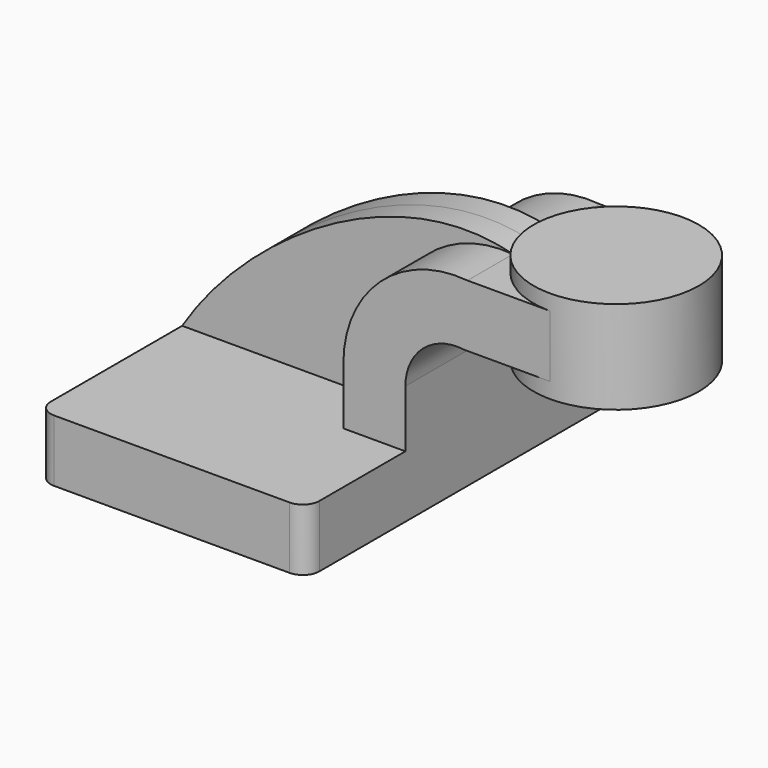
from build123d import *

# Parameters (mm, degrees)
F1_DEPTH = 63.5
F2_DEPTH = 25.4
F3_DEPTH = 7.9375
F5_R     = 5.08


with BuildPart() as f1:
    # F0 (on Front) → F1 (new body, symmetric)
    with BuildSketch(Plane.XZ):
        Polygon((41.275, -9.525), (41.275, 9.525), (22.225, 9.525), (-41.275, 9.525), (-41.275, -9.525), align=None)
    extrude(amount=F1_DEPTH, both=True)

    # F0 (on Front) → F2 (join, symmetric)
    with BuildSketch(Plane.XZ):
        with BuildLine():
            Line((22.225, 9.525), (41.275, 9.525))
            Line((41.275, 9.525), (41.275, 27.147279))
            ThreePointArc((41.275, 27.147279), (46.714726, 39.110585), (59.305952, 42.8752))
            Line((59.305952, 42.8752), (60.325, 42.8752))
            Line((60.325, 42.8752), (60.325, 61.927662))
            ThreePointArc((60.325, 61.927662), (33.60357, 52.941101), (22.225, 27.147279))
            Line((22.225, 27.147279), (22.225, 9.525))
        make_face()
        with BuildLine():
            ThreePointArc((60.35185, 61.9252), (60.338425, 61.926433), (60.325, 61.927662))
            Line((60.325, 61.927662), (60.325, 42.8752))
            Line((60.325, 42.8752), (85.725, 42.8752))
            Line((85.725, 42.8752), (85.725, 61.9252))
            Line((85.725, 61.9252), (60.35185, 61.9252))
        make_face()
    extrude(amount=F2_DEPTH, both=True)

    # F5
    f5_edges = [f1.edges().sort_by_distance(p)[0] for p in [
        (41.275, 63.5, 0),
        (-41.275, 63.5, 0),
        (-41.275, -63.5, 0),
        (41.275, -63.5, 0),
    ]]
    fillet(f5_edges, radius=F5_R)


with BuildPart() as f3:
    # F0 (on Front) → F3 (new body, symmetric)
    with BuildSketch(Plane.XZ):
        with BuildLine():
            Line((-41.275, 9.525), (22.225, 9.525))
            Line((22.225, 9.525), (22.225, 27.147279))
            ThreePointArc((22.225, 27.147279), (33.60357, 52.941101), (60.325, 61.927662))
            Line((60.325, 61.927662), (60.325, 61.932572))
            add(Edge.make_bspline(
                [(-41.275, 9.525), (-21.002134, 41.976057), (24.873193, 71.655056), (60.325, 61.932572)],
                knots=[0, 0, 0, 0, 114.311848, 114.311848, 114.311848, 114.311848], degree=3))
        make_face()
    extrude(amount=F3_DEPTH, both=True)


with BuildPart() as f4:
    # F0 (on Front) → F4 (revolve)
    with BuildSketch(Plane.XZ):
        Polygon((85.725, 61.9252), (85.725, 42.8752), (85.725, 38.1), (111.125, 38.1), (111.125, 66.675), (85.725, 66.675), align=None)
    revolve(axis=Axis((85.725, 0, 52.3875), (0, 0, -1)))


solid = Compound([f1.part, f3.part, f4.part])
